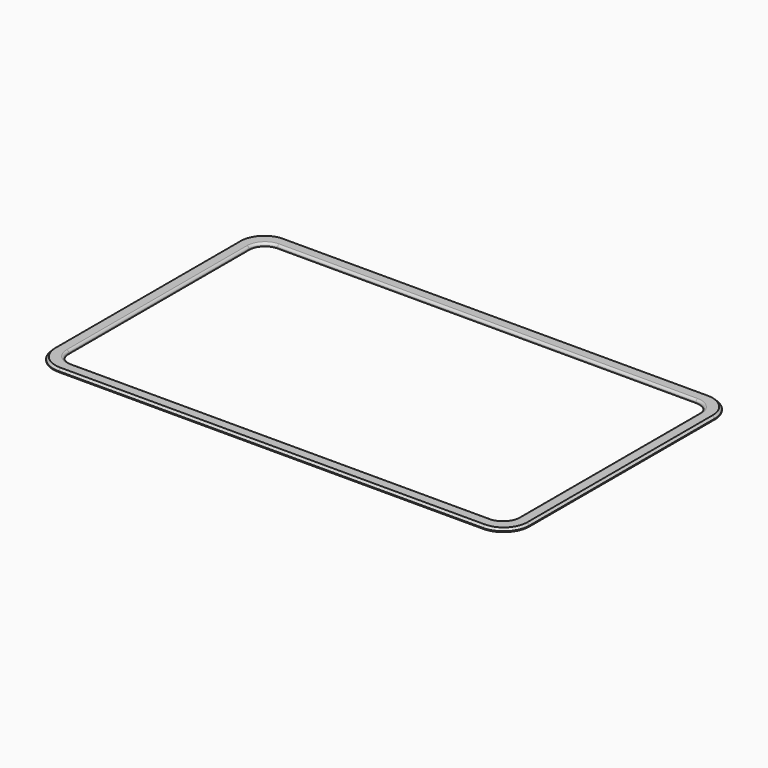
from build123d import *

# Parameters (mm, degrees)
PAD002_DEPTH = 1.4
FILLET_R     = 1
CHAMFER_SIZE = 1


with BuildPart() as part:
    # Sketch003 → Pad002 (new body)
    with BuildSketch(Plane.XY):
        with BuildLine():
            Line((-97.175786, 64.8), (97.175786, 64.8))
            ThreePointArc((109, 52.975786), (105.536768, 61.336768), (97.175786, 64.8))
            Line((109, 52.975786), (109, -52.975786))
            ThreePointArc((97.175786, -64.8), (105.536768, -61.336768), (109, -52.975786))
            Line((97.175786, -64.8), (-97.175786, -64.8))
            ThreePointArc((-109, -52.975786), (-105.536768, -61.336768), (-97.175786, -64.8))
            Line((-109, -52.975786), (-109, 52.975786))
            ThreePointArc((-97.175786, 64.8), (-105.536768, 61.336768), (-109, 52.975786))
        make_face()
        with BuildLine():
            Line((-95.761573, 58.8), (95.761573, 58.8))
            ThreePointArc((103, 51.561573), (100.879914, 56.679914), (95.761573, 58.8))
            Line((103, 51.561573), (103, -51.561573))
            ThreePointArc((95.761573, -58.8), (100.879914, -56.679914), (103, -51.561573))
            Line((95.761573, -58.8), (-95.761573, -58.8))
            ThreePointArc((-103, -51.561573), (-100.879914, -56.679914), (-95.761573, -58.8))
            Line((-103, -51.561573), (-103, 51.561573))
            ThreePointArc((-95.761573, 58.8), (-100.879914, 56.679914), (-103, 51.561573))
        make_face(mode=Mode.SUBTRACT)
    extrude(amount=PAD002_DEPTH)

    # Fillet
    fillet_edges = [part.edges().sort_by_distance(p)[0] for p in [
        (0, 58.8, 1.4),
        (-100.879914, 56.679914, 1.4),
        (-103, 0, 1.4),
        (-100.879914, -56.679914, 1.4),
        (0, -58.8, 1.4),
        (100.879914, -56.679914, 1.4),
        (103, 0, 1.4),
        (100.879914, 56.679914, 1.4),
    ]]
    fillet(fillet_edges, radius=FILLET_R)

    # Chamfer
    chamfer_edges = [part.edges().sort_by_distance(p)[0] for p in [
        (0, 64.8, 1.4),
        (105.536768, 61.336768, 1.4),
        (109, 0, 1.4),
        (105.536768, -61.336768, 1.4),
        (0, -64.8, 1.4),
        (-105.536768, -61.336768, 1.4),
        (-109, 0, 1.4),
        (-105.536768, 61.336768, 1.4),
    ]]
    chamfer(chamfer_edges, length=CHAMFER_SIZE)


solid = part.part
